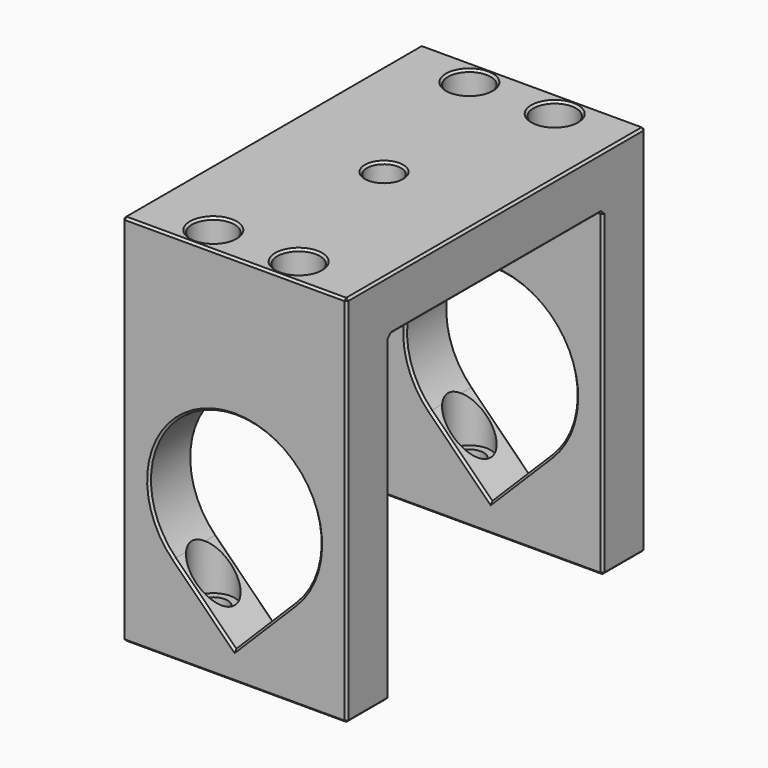
from build123d import *

# Parameters (mm, degrees)
SKETCH001_W     = 42
SKETCH001_H     = 70
PAD001_DEPTH    = 70
POCKET_DEPTH    = 70
SKETCH003_W     = 42
SKETCH003_H     = 50
POCKET001_DEPTH = 60
SKETCH004_R     = 3.2
POCKET002_DEPTH = 10
SKETCH005_R     = 2.7
POCKET003_DEPTH = 70
SKETCH007_R     = 4
POCKET004_DEPTH = 62
CHAMFER001_SIZE = 0.4


with BuildPart() as part:
    # Sketch001 → Pad001 (new body)
    with BuildSketch(Plane.XY):
        Rectangle(SKETCH001_W, SKETCH001_H)
    extrude(amount=PAD001_DEPTH)

    # Sketch002 (on Face3 of Pad001) → Pocket (cut)
    with BuildSketch(Plane.XZ.offset(35)):
        with BuildLine():
            ThreePointArc((11.313708, 16.686292), (0, 44), (-11.313708, 16.686292))
            Line((-11.313708, 16.686292), (0, 5.372583))
            Line((0, 5.372583), (11.313708, 16.686292))
        make_face()
    extrude(amount=-POCKET_DEPTH, mode=Mode.SUBTRACT)

    # Sketch003 (on Face3 of Pocket) → Pocket001 (cut)
    with BuildSketch(Plane(origin=(0, 0, 0), x_dir=(1, 0, 0), z_dir=(0, 0, -1))):
        Rectangle(SKETCH003_W, SKETCH003_H)
    extrude(amount=-POCKET001_DEPTH, mode=Mode.SUBTRACT)

    # Sketch004 (on Face4 of Pocket001) → Pocket002 (cut)
    with BuildSketch(Plane.XY.offset(70)):
        Circle(SKETCH004_R)
    extrude(amount=-POCKET002_DEPTH, mode=Mode.SUBTRACT)

    # Sketch005 (on Face9 of Pocket001) → Pocket003 (cut)
    with BuildSketch(Plane(origin=(0, 0, 0), x_dir=(1, 0, 0), z_dir=(0, 0, -1))):
        with Locations((-8, 30)):
            Circle(SKETCH005_R)
        with Locations((8, 30)):
            Circle(SKETCH005_R)
        with Locations((-8, -30)):
            Circle(SKETCH005_R)
        with Locations((8, -30)):
            Circle(SKETCH005_R)
    extrude(amount=-POCKET003_DEPTH, mode=Mode.SUBTRACT)

    # Sketch007 (on Face4 of Pocket003) → Pocket004 (cut)
    with BuildSketch(Plane.XY.offset(70)):
        with Locations((-8, 30)):
            Circle(SKETCH007_R)
        with Locations((8, 30)):
            Circle(SKETCH007_R)
        with Locations((8, -30)):
            Circle(SKETCH007_R)
        with Locations((-8, -30)):
            Circle(SKETCH007_R)
    extrude(amount=-POCKET004_DEPTH, mode=Mode.SUBTRACT)

    # Chamfer001
    chamfer001_edges = [part.edges().sort_by_distance(p)[0] for p in [
        (0, 35, 70),
        (-21, 0, 70),
        (21, 0, 70),
        (0, -35, 70),
        (-12, -30, 70),
        (4, -30, 70),
        (-12, 30, 70),
        (-3.2, 0, 70),
        (4, 30, 70),
        (21, -35, 35),
        (0, -35, 0),
        (-21, -35, 35),
        (0, -35, 44),
        (-5.656854, -35, 11.029437),
        (5.656854, -35, 11.029437),
        (-21, -30, 0),
        (-21, -25, 30),
        (-21, 0, 60),
        (-21, 25, 30),
        (-21, 30, 0),
        (-21, 35, 35),
        (0, 35, 0),
        (21, 35, 35),
        (5.656854, 35, 11.029437),
        (-5.656854, 35, 11.029437),
        (0, 35, 44),
        (21, 30, 0),
        (21, 25, 30),
        (21, 0, 60),
        (21, -25, 30),
        (21, -30, 0),
        (0, -25, 0),
        (0, -25, 60),
        (-5.656854, -25, 11.029437),
        (0, -25, 44),
        (5.656854, -25, 11.029437),
        (0, 25, 0),
        (0, 25, 60),
        (0, 25, 44),
        (-5.656854, 25, 11.029437),
        (5.656854, 25, 11.029437),
        (5.3, -30, 0),
        (-10.7, -30, 0),
        (-10.7, 30, 0),
        (5.3, 30, 0),
    ]]
    chamfer(chamfer001_edges, length=CHAMFER001_SIZE)


solid = part.part
